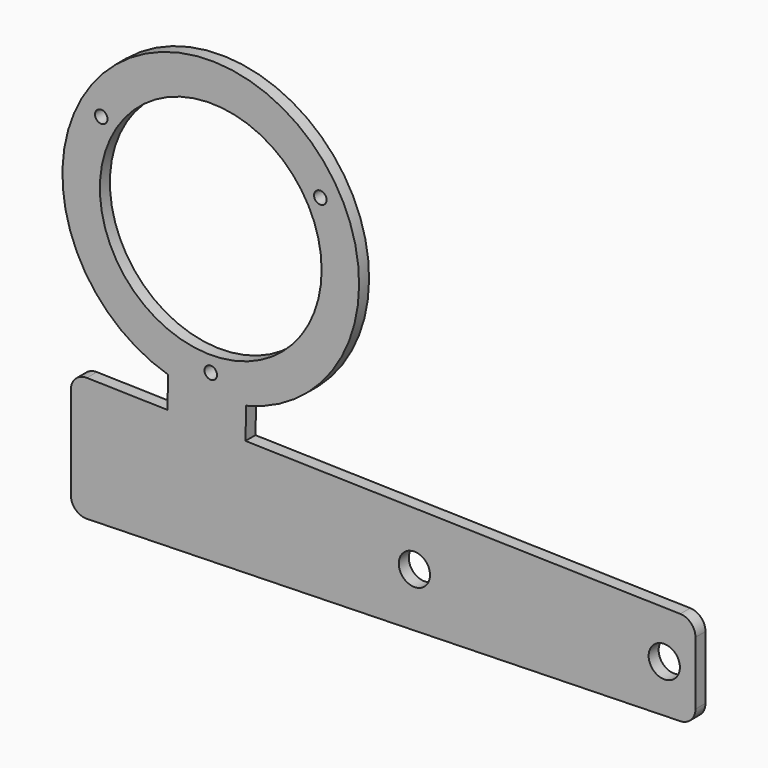
from build123d import *

# Parameters (mm, degrees)
F0_R     = 2
F0_R_2   = 5
F0_R_3   = 35.5
F1_DEPTH = 4


with BuildPart() as f1:
    # F0 (on Front) → F1 (new body)
    with BuildSketch(Plane.XZ):
        with BuildLine():
            ThreePointArc((-69.641921, 39.871876), (-73.257956, 38.452879), (-74.766882, 34.873438))
            Line((-74.766882, 34.873438), (-74.766882, 5.126562))
            ThreePointArc((-74.766882, 5.126562), (-73.257956, 1.547121), (-69.641921, 0.128124))
            Line((-69.641921, 0.128124), (120.358079, 4.878124))
            ThreePointArc((120.358079, 4.878124), (123.81256, 6.385488), (125.233118, 9.876562))
            Line((125.233118, 9.876562), (125.233118, 30.123438))
            ThreePointArc((125.233118, 30.123438), (123.81256, 33.614512), (120.358079, 35.121876))
            Line((120.358079, 35.121876), (-18.874363, 38.602687))
            Line((-18.874363, 38.602687), (-18.624441, 48.599563))
            ThreePointArc((-18.624441, 48.599563), (-28.788121, 142.208572), (-43.616632, 49.224368))
            Line((-43.616632, 49.224368), (-43.866554, 39.227492))
            Line((-43.866554, 39.227492), (-69.641921, 39.871876))
        make_face()
        with Locations((-29.97525, 54.223409)):
            Circle(F0_R, mode=Mode.SUBTRACT)
        with Locations((35.233118, 20)):
            Circle(F0_R_2, mode=Mode.SUBTRACT)
        with Locations((115.233118, 20)):
            Circle(F0_R_2, mode=Mode.SUBTRACT)
        with Locations((-29.97525, 94.723409)):
            Circle(F0_R_3, mode=Mode.SUBTRACT)
        with Locations((-65.049279, 114.973409)):
            Circle(F0_R, mode=Mode.SUBTRACT)
        with Locations((5.098778, 114.973409)):
            Circle(F0_R, mode=Mode.SUBTRACT)
    extrude(amount=F1_DEPTH)


solid = f1.part
